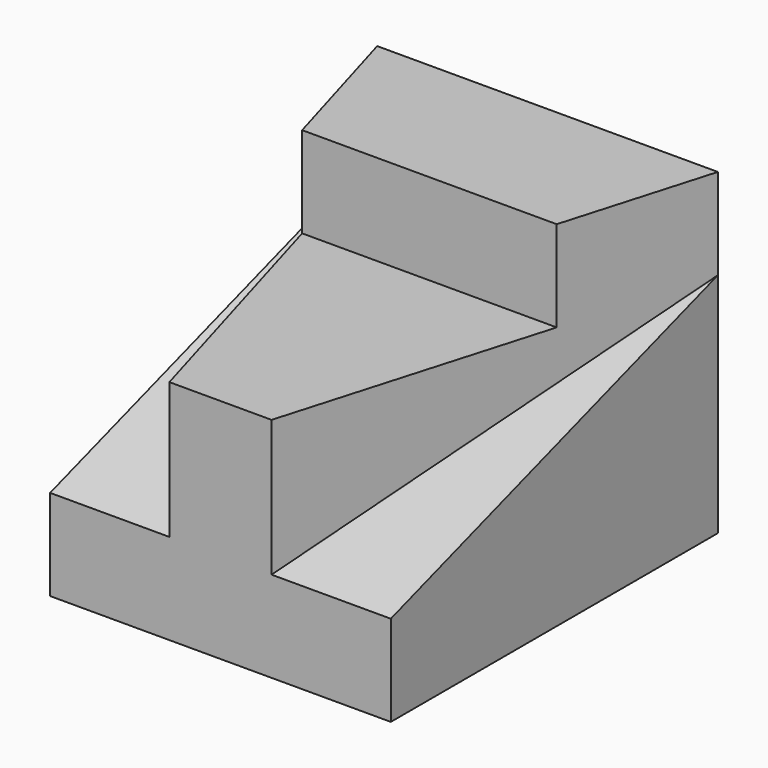
from build123d import *

# Parameters (mm, degrees)
F1_DEPTH = 15
F3_DEPTH = 28
F0_W     = 23
F0_H     = 10
F4_DEPTH = 15


with BuildPart() as f1:
    # F0 (on Right) → F1 (new body, symmetric)
    with BuildSketch(Plane.YZ):
        Polygon((0, 8), (0, 0), (36, 0), (36, 20), align=None)
    extrude(amount=F1_DEPTH, both=True)

    # F2 (on face) → F3 (join)
    with BuildSketch(Plane(origin=(0, 0, 0), x_dir=(1, 0, 0), z_dir=(0, 0, -1))):
        Polygon((4.5, 0), (-4.5, 0), (-15, -36), (15, -36), align=None)
    extrude(amount=-F3_DEPTH)

    # F0 (on Right) → F4 (cut, symmetric)
    with BuildSketch(Plane.YZ):
        with Locations((11.5, 25)):
            Rectangle(F0_W, F0_H)
    extrude(amount=F4_DEPTH, both=True, mode=Mode.SUBTRACT)


solid = f1.part
